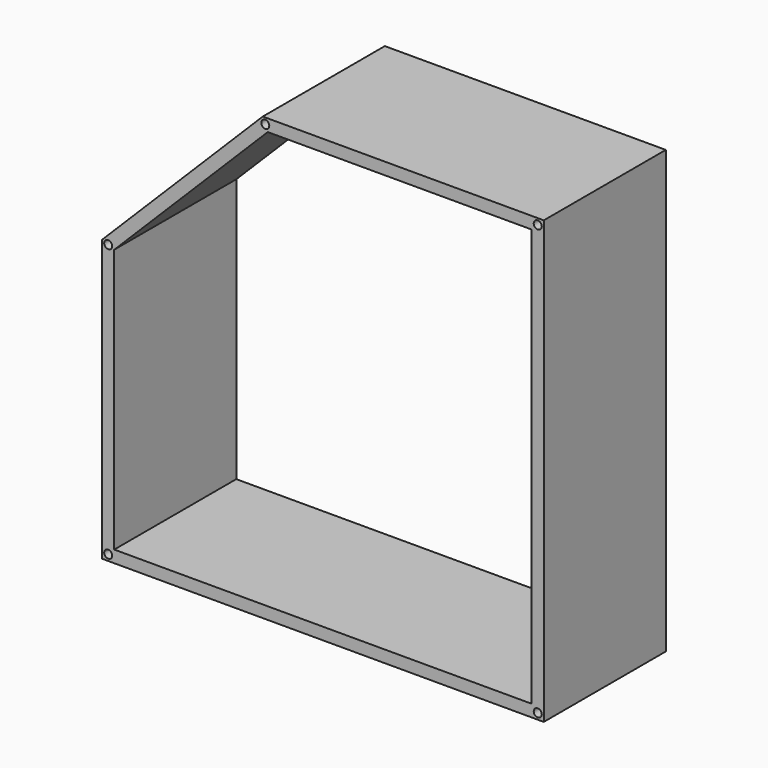
from build123d import *

# Parameters (mm, degrees)
F0_R     = 5
F1_DEPTH = 95


with BuildPart() as f1:
    # F0 (on Front) → F1 (new body, symmetric)
    with BuildSketch(Plane.XZ):
        Polygon((-275, 75), (-275, -275), (275, -275), (275, 275), (-75, 275), align=None)
        with Locations((-267.5, -267.5)):
            Circle(F0_R, mode=Mode.SUBTRACT)
        with Locations((267.5, -267.5)):
            Circle(F0_R, mode=Mode.SUBTRACT)
        with Locations((-267.5, 71.8933982822)):
            Circle(F0_R, mode=Mode.SUBTRACT)
        with Locations((-71.8933982822, 267.5)):
            Circle(F0_R, mode=Mode.SUBTRACT)
        Polygon((260, -260), (-260, -260), (-260, 68.7867965644), (-68.7867965644, 260), (-35, 260), (260, 260), (260, 130), (260, -35), align=None, mode=Mode.SUBTRACT)
        with Locations((267.5, 267.5)):
            Circle(F0_R, mode=Mode.SUBTRACT)
    extrude(amount=F1_DEPTH, both=True)


solid = f1.part
